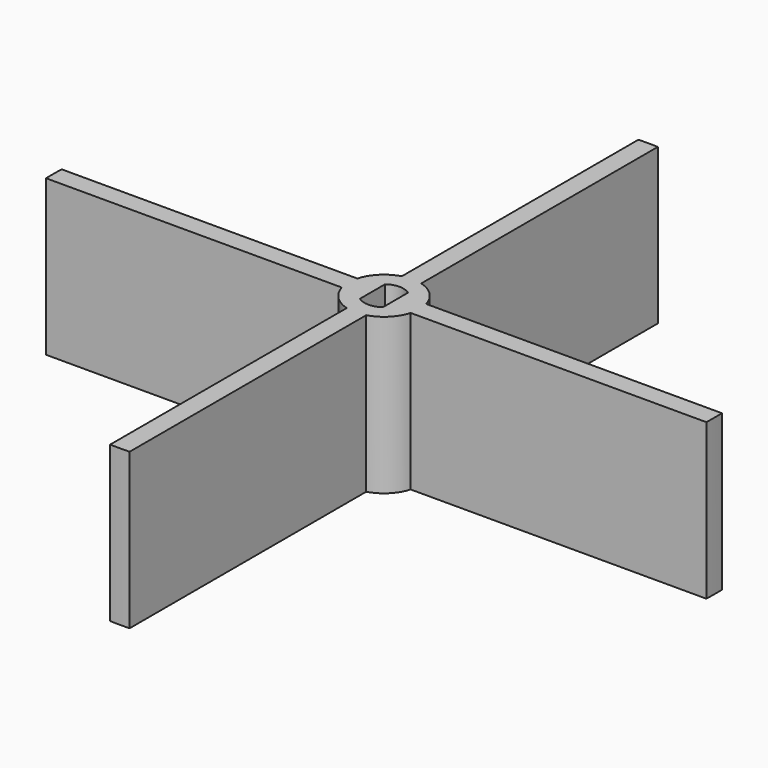
from build123d import *

# Parameters (mm, degrees)
F0_R      = 2.5
F1_DEPTH  = 8
F3_DEPTH  = 6
F4_R      = 4.6
F4_R_2    = 2.5
F5_DEPTH  = 1.5
F6_R      = 14
F7_DEPTH  = 19.2
F9_DEPTH  = 16.5
F11_DEPTH = 20


with BuildPart() as f1:
    # F0 (on Top) → F1 (new body)
    with BuildSketch(Plane.XY):
        Circle(F0_R)
    extrude(amount=F1_DEPTH)

    # F2 (on face) → F3 (cut)
    with BuildSketch(Plane(origin=(0, 0, 0), x_dir=(1, 0, 0), z_dir=(0, 0, -1))):
        with BuildLine():
            Line((-1.475, -2.018508), (-1.475, 2.018508))
            ThreePointArc((-1.475, 2.018508), (-2.5, 0), (-1.475, -2.018508))
        make_face()
        with BuildLine():
            ThreePointArc((1.475, -2.018508), (2.5, 0), (1.475, 2.018508))
            Line((1.475, 2.018508), (1.475, -2.018508))
        make_face()
    extrude(amount=-F3_DEPTH, mode=Mode.SUBTRACT)

    # F4 (on face) → F5 (join)
    with BuildSketch(Plane.XY.offset(8)):
        Circle(F4_R)
        Circle(F4_R_2, mode=Mode.SUBTRACT)
        Circle(F4_R_2)
    extrude(amount=F5_DEPTH)

    # F6 (on face) → F7 (join)
    with BuildSketch(Plane.XY.offset(9.5)):
        with Locations((0, 7.6)):
            Circle(F6_R)
    extrude(amount=F7_DEPTH)

    # F8 (on face) → F9 (join)
    with BuildSketch(Plane(origin=(0, 0, 9.5), x_dir=(1, 0, 0), z_dir=(0, 0, -1))):
        with BuildLine():
            ThreePointArc((7.25, -19.57654), (0, -21.6), (-7.25, -19.57654))
            Line((-7.25, -19.57654), (-7.25, -24.07654))
            Line((-7.25, -24.07654), (7.25, -24.07654))
            Line((7.25, -24.07654), (7.25, -19.57654))
        make_face()
    extrude(amount=-F9_DEPTH)


with BuildPart() as f11:
    # F10 (on face) → F11 (new body)
    with BuildSketch(Plane(origin=(0, 0, 6), x_dir=(1, 0, 0), z_dir=(0, 0, -1))):
        with BuildLine():
            Line((-1.25, -4.426906), (-1.25, -42.481614))
            ThreePointArc((-1.25, -42.481614), (0, -42.5), (1.25, -42.481614))
            Line((1.25, -42.481614), (1.25, -4.426906))
            ThreePointArc((1.25, -4.426906), (3.252642, -3.252741), (4.426868, -1.250135))
            Line((4.426868, -1.250135), (42.48161, -1.250135))
            ThreePointArc((42.48161, -1.250135), (42.5, -0.000135), (42.481618, 1.249865))
            Line((42.481618, 1.249865), (4.426945, 1.249865))
            ThreePointArc((4.426945, 1.249865), (3.252741, 3.252642), (1.25, 4.426906))
            Line((1.25, 4.426906), (1.25, 42.481614))
            ThreePointArc((1.25, 42.481614), (0, 42.5), (-1.25, 42.481614))
            Line((-1.25, 42.481614), (-1.25, 4.426906))
            ThreePointArc((-1.25, 4.426906), (-3.252741, 3.252642), (-4.426945, 1.249865))
            Line((-4.426945, 1.249865), (-42.481618, 1.249865))
            ThreePointArc((-42.481618, 1.249865), (-42.5, -0.000135), (-42.48161, -1.250135))
            Line((-42.48161, -1.250135), (-4.426868, -1.250135))
            ThreePointArc((-4.426868, -1.250135), (-3.252642, -3.252741), (-1.25, -4.426906))
        make_face()
    extrude(amount=F11_DEPTH)

    # F12: cut F1
    add(f1.part, mode=Mode.SUBTRACT)


solid = f11.part
